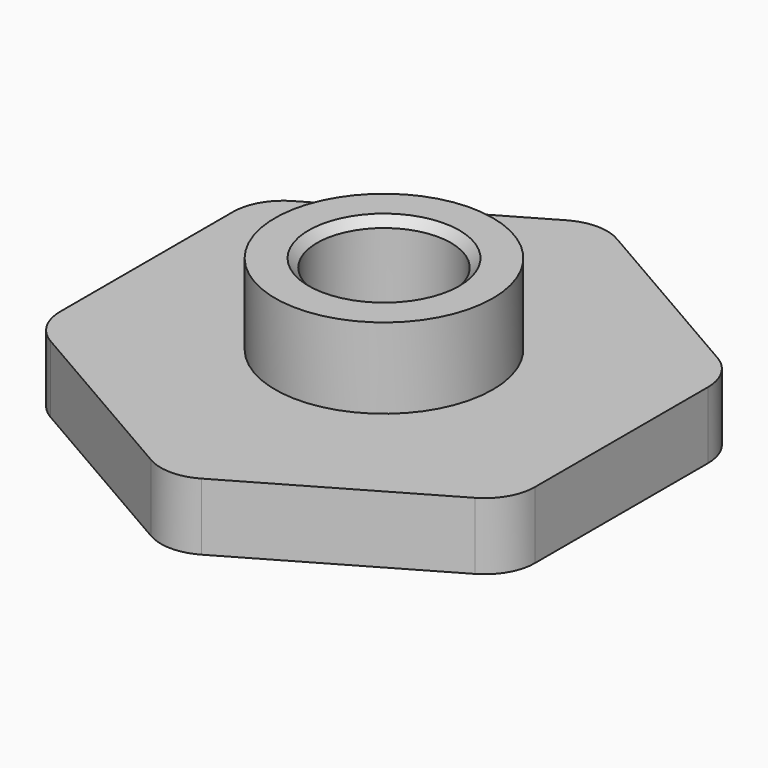
from build123d import *

# Parameters (mm, degrees)
SKETCH_R      = 4
PAD_DEPTH     = 4
SKETCH001_R   = 6.5
SKETCH001_R_2 = 4
PAD001_DEPTH  = 4.8
CHAMFER_SIZE  = 0.5
FILLET_R      = 3


with BuildPart() as part:
    # Sketch → Pad (new body)
    with BuildSketch(Plane.XY):
        Polygon((0, 16.36788), (-14.175, 8.18394), (-14.175, -8.18394), (0, -16.36788), (14.175, -8.18394), (14.175, 8.18394), align=None)
        Circle(SKETCH_R, mode=Mode.SUBTRACT)
    extrude(amount=PAD_DEPTH)

    # Sketch001 (on Face9 of Pad) → Pad001 (join)
    with BuildSketch(Plane.XY.offset(4)):
        Circle(SKETCH001_R)
        Circle(SKETCH001_R_2, mode=Mode.SUBTRACT)
    extrude(amount=PAD001_DEPTH)

    # Chamfer
    chamfer_edges = [part.edges().sort_by_distance(p)[0] for p in [
        (-4, 0, 8.8),
    ]]
    chamfer(chamfer_edges, length=CHAMFER_SIZE)

    # Fillet
    fillet_edges = [part.edges().sort_by_distance(p)[0] for p in [
        (0, -16.36788, 2),
        (14.175, -8.18394, 2),
        (14.175, 8.18394, 2),
        (-14.175, -8.18394, 2),
        (-14.175, 8.18394, 2),
        (0, 16.36788, 2),
    ]]
    fillet(fillet_edges, radius=FILLET_R)


solid = part.part
